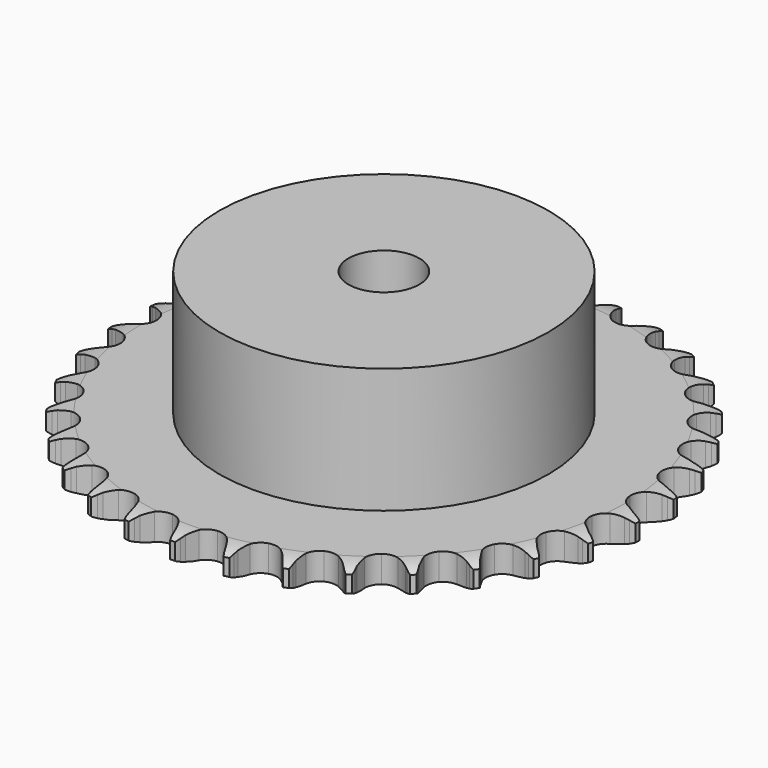
from build123d import *

# Parameters (mm, degrees)
PAD_DEPTH         = 5.3
SKETCH001_R       = 32.5
PAD001_DEPTH      = 30
SKETCH002_R       = 7
POCKET_DEPTH      = 0.001
POCKET_DEPTH_BACK = 30.001


with BuildPart() as part:
    # Sprocket → Pad (new body)
    with BuildSketch(Plane.XY):
        with BuildLine():
            ThreePointArc((-5.033928, 52.71768), (-4.450917, 51.93788), (-4.025047, 51.062309))
            Line((-4.025047, 51.062309), (-3.715267, 50.23443))
            ThreePointArc((-3.715267, 50.23443), (-3.223756, 49.160429), (-2.584928, 48.16697))
            ThreePointArc((-2.584928, 48.16697), (-1.445345, 47.214591), (0, 46.873047))
            ThreePointArc((0, 46.873047), (1.445345, 47.214591), (2.584928, 48.16697))
            ThreePointArc((2.584928, 48.16697), (3.223756, 49.160429), (3.715267, 50.23443))
            Line((3.715267, 50.23443), (4.025047, 51.062309))
            ThreePointArc((4.025047, 51.062309), (4.450917, 51.93788), (5.033928, 52.71768))
            ThreePointArc((5.033928, 52.71768), (5.458825, 51.841637), (5.711296, 50.901292))
            Line((5.711296, 50.901292), (5.858802, 50.029748))
            ThreePointArc((5.858802, 50.029748), (6.138174, 48.882135), (6.577444, 47.785731))
            ThreePointArc((6.577444, 47.785731), (7.516195, 46.634895), (8.870783, 46.02599))
            ThreePointArc((8.870783, 46.02599), (10.354646, 46.087829), (11.653874, 46.807329))
            Line((11.653874, 46.807329), (13.155055, 48.62351))
            ThreePointArc((13.155055, 48.62351), (13.375447, 49.006789), (13.615915, 49.377801))
            ThreePointArc((13.615915, 49.377801), (14.199792, 50.156953), (14.919845, 50.812326))
            ThreePointArc((14.919845, 50.812326), (15.171271, 49.871701), (15.241218, 48.900569))
            Line((15.241218, 48.900569), (15.221117, 48.016859))
            ThreePointArc((15.221117, 48.016859), (15.278254, 46.837115), (15.50209, 45.677391))
            ThreePointArc((15.50209, 45.677391), (16.206079, 44.369693), (17.420952, 43.515434))
            ThreePointArc((17.420952, 43.515434), (18.889703, 43.295332), (20.301618, 43.75595))
            Line((20.301618, 43.75595), (22.119386, 45.255209))
            ThreePointArc((22.119386, 45.255209), (22.408331, 45.589852), (22.714668, 45.908651))
            ThreePointArc((22.714668, 45.908651), (23.435449, 46.563224), (24.26652, 47.070481))
            ThreePointArc((24.26652, 47.070481), (24.335388, 46.099273), (24.220283, 45.132453))
            Line((24.220283, 45.132453), (24.033302, 44.268517))
            ThreePointArc((24.033302, 44.268517), (23.866138, 43.099278), (23.86645, 41.918151))
            ThreePointArc((23.86645, 41.918151), (24.310234, 40.500854), (25.341483, 39.432117))
            ThreePointArc((25.341483, 39.432117), (26.742037, 38.938029), (28.215609, 39.123116))
            Line((28.215609, 39.123116), (30.284265, 40.251267))
            ThreePointArc((30.284265, 40.251267), (30.63132, 40.525179), (30.992454, 40.780243))
            ThreePointArc((30.992454, 40.780243), (31.824088, 41.286578), (32.736139, 41.627388))
            ThreePointArc((32.736139, 41.627388), (32.619961, 40.660696), (32.323964, 39.733132))
            Line((32.323964, 39.733132), (31.976861, 38.920195))
            ThreePointArc((31.976861, 38.920195), (31.591438, 37.803722), (31.368215, 36.64388))
            ThreePointArc((31.368215, 36.64388), (31.535753, 35.168209), (32.346106, 33.92362))
            ThreePointArc((32.346106, 33.92362), (33.627844, 33.173405), (35.109815, 33.076271))
            Line((35.109815, 33.076271), (37.354591, 33.79254))
            ThreePointArc((37.354591, 33.79254), (37.747213, 33.995821), (38.150092, 34.177931))
            ThreePointArc((38.150092, 34.177931), (39.062521, 34.517727), (40.02259, 34.679771))
            ThreePointArc((40.02259, 34.679771), (39.725563, 33.752536), (39.259373, 32.897752))
            Line((39.259373, 32.897752), (38.764693, 32.165195))
            ThreePointArc((38.764693, 32.165195), (38.174941, 31.141841), (37.73625, 30.045203))
            ThreePointArc((37.73625, 30.045203), (37.621488, 28.564493), (38.181657, 27.189035))
            ThreePointArc((38.181657, 27.189035), (39.298253, 26.209807), (40.73506, 25.833964))
            Line((40.73506, 25.833964), (43.074825, 26.112462))
            ThreePointArc((43.074825, 26.112462), (43.498823, 26.237765), (43.928886, 26.340339))
            ThreePointArc((43.928886, 26.340339), (44.889133, 26.501316), (45.862519, 26.478738))
            ThreePointArc((45.862519, 26.478738), (45.39538, 25.624472), (44.775845, 24.873362))
            Line((44.775845, 24.873362), (44.151468, 24.247662))
            ThreePointArc((44.151468, 24.247662), (43.378702, 23.354412), (42.740399, 22.360615))
            ThreePointArc((42.740399, 22.360615), (42.347485, 20.928382), (42.637224, 19.471768))
            ThreePointArc((42.637224, 19.471768), (43.548321, 18.298918), (44.888034, 17.657949))
            Line((44.888034, 17.657949), (47.238223, 17.488611))
            ThreePointArc((47.238223, 17.488611), (47.678272, 17.531408), (48.119975, 17.550738))
            ThreePointArc((48.119975, 17.550738), (49.093335, 17.527078), (50.044858, 17.320694))
            ThreePointArc((50.044858, 17.320694), (49.424489, 16.570272), (48.674002, 15.949983))
            Line((48.674002, 15.949983), (47.942493, 15.453755))
            ThreePointArc((47.942493, 15.453755), (47.014644, 14.722894), (46.199799, 13.867856))
            ThreePointArc((46.199799, 13.867856), (45.542933, 12.535865), (45.55177, 11.05074))
            ThreePointArc((45.55177, 11.05074), (46.224439, 9.726659), (47.418638, 8.843731))
            Line((47.418638, 8.843731), (49.694308, 8.232677))
            ThreePointArc((49.694308, 8.232677), (50.134505, 8.191421), (50.571884, 8.126808))
            ThreePointArc((50.571884, 8.126808), (51.523176, 7.919367), (52.418445, 7.536635))
            ThreePointArc((52.418445, 7.536635), (51.667269, 6.91718), (50.812953, 6.450131))
            Line((50.812953, 6.450131), (50.000752, 6.101309))
            ThreePointArc((50.000752, 6.101309), (48.951354, 5.559252), (47.989417, 4.873877))
            ThreePointArc((47.989417, 4.873877), (47.092341, 3.690268), (46.819956, 2.230309))
            ThreePointArc((46.819956, 2.230309), (47.229885, 0.802853), (48.235409, -0.290123))
            Line((48.235409, -0.290123), (50.354311, -1.320808))
            ThreePointArc((50.354311, -1.320808), (50.778745, -1.444626), (51.195992, -1.590846))
            ThreePointArc((51.195992, -1.590846), (52.090835, -1.974572), (52.897493, -2.519818))
            ThreePointArc((52.897493, -2.519818), (52.042659, -2.985918), (51.115392, -3.282846))
            Line((51.115392, -3.282846), (50.251854, -3.471654))
            ThreePointArc((50.251854, -3.471654), (49.118835, -3.805315), (48.044573, -4.296258))
            ThreePointArc((48.044573, -4.296258), (46.939709, -5.288704), (46.395947, -6.67073))
            ThreePointArc((46.395947, -6.67073), (46.528321, -8.14997), (47.308826, -9.413491))
            Line((47.308826, -9.413491), (49.194379, -10.826555))
            ThreePointArc((49.194379, -10.826555), (49.58771, -11.028461), (49.969745, -11.251002))
            ThreePointArc((49.969745, -11.251002), (50.775796, -11.797144), (51.464687, -12.485198))
            ThreePointArc((51.464687, -12.485198), (50.537092, -12.781096), (49.570388, -12.897173))
            Line((49.570388, -12.897173), (48.686723, -12.919143))
            ThreePointArc((48.686723, -12.919143), (47.511033, -13.032349), (46.363273, -13.311114))
            ThreePointArc((46.363273, -13.311114), (45.090553, -14.076528), (44.295068, -15.330672))
            ThreePointArc((44.295068, -15.330672), (44.145101, -16.808232), (44.672379, -18.196631))
            Line((44.672379, -18.196631), (46.256433, -19.941003))
            ThreePointArc((46.256433, -19.941003), (46.604445, -20.213698), (46.93746, -20.504518))
            ThreePointArc((46.93746, -20.504518), (47.625587, -21.193337), (48.171814, -21.99933))
            ThreePointArc((48.171814, -21.99933), (47.204982, -22.114333), (46.233781, -22.045361))
            Line((46.233781, -22.045361), (45.361926, -21.8997))
            ThreePointArc((45.361926, -21.8997), (44.186058, -21.78836), (43.006283, -21.844872))
            ThreePointArc((43.006283, -21.844872), (41.611708, -22.35559), (40.59325, -23.436524))
            ThreePointArc((40.59325, -23.436524), (40.166363, -24.859001), (40.421356, -26.322098))
            Line((40.421356, -26.322098), (41.64666, -28.33473))
            ThreePointArc((41.64666, -28.33473), (41.936775, -28.668359), (42.208733, -29.016948))
            ThreePointArc((42.208733, -29.016948), (42.754065, -29.823547), (43.137886, -30.71835))
            ThreePointArc((43.137886, -30.71835), (42.166762, -30.6483), (41.226164, -30.396773))
            Line((41.226164, -30.396773), (40.397632, -30.088745))
            ThreePointArc((40.397632, -30.088745), (39.264084, -29.756882), (38.094934, -29.589099))
            ThreePointArc((38.094934, -29.589099), (36.628907, -29.826663), (35.424286, -30.695318))
            ThreePointArc((35.424286, -30.695318), (34.735908, -32.011301), (34.709399, -33.496215))
            Line((34.709399, -33.496215), (35.531667, -35.704367))
            ThreePointArc((35.531667, -35.704367), (35.7534, -36.086872), (35.954473, -36.480629))
            ThreePointArc((35.954473, -36.480629), (36.3373, -37.375857), (36.544842, -38.327128))
            ThreePointArc((36.544842, -38.327128), (35.604524, -38.074557), (34.728526, -37.649567))
            Line((34.728526, -37.649567), (33.973261, -37.190304))
            ThreePointArc((33.973261, -37.190304), (32.923004, -36.649913), (31.806736, -36.263899))
            ThreePointArc((31.806736, -36.263899), (30.322242, -36.219723), (28.974995, -36.844704))
            ThreePointArc((28.974995, -36.844704), (28.050006, -38.006628), (27.742955, -39.459692))
            Line((27.742955, -39.459692), (28.132468, -41.783555))
            ThreePointArc((28.132468, -41.783555), (28.277804, -42.20111), (28.400724, -42.625805))
            ThreePointArc((28.400724, -42.625805), (28.60721, -43.577306), (28.630973, -44.550663))
            ThreePointArc((28.630973, -44.550663), (27.755447, -44.124701), (26.975709, -43.541607))
            Line((26.975709, -43.541607), (26.321009, -42.947709))
            ThreePointArc((26.321009, -42.947709), (25.392001, -42.218321), (24.368958, -41.628028))
            ThreePointArc((24.368958, -41.628028), (22.919652, -41.303707), (21.478473, -41.662426))
            ThreePointArc((21.478473, -41.662426), (20.350304, -42.628298), (19.773808, -43.996993))
            Line((19.773808, -43.996993), (19.716488, -46.352576))
            ThreePointArc((19.716488, -46.352576), (19.780175, -46.790091), (19.8205, -47.230374))
            ThreePointArc((19.8205, -47.230374), (19.843181, -48.203757), (19.682305, -49.164022))
            ThreePointArc((19.682305, -49.164022), (18.903215, -48.580063), (18.247919, -47.85994))
            Line((18.247919, -47.85994), (17.717447, -47.152872))
            ThreePointArc((17.717447, -47.152872), (16.943265, -46.260849), (16.050423, -45.487611))
            ThreePointArc((16.050423, -45.487611), (14.688686, -44.894868), (13.205663, -44.97436))
            ThreePointArc((13.205663, -44.97436), (11.915089, -45.709269), (11.089984, -46.944127))
            Line((11.089984, -46.944127), (10.587902, -49.246295))
            ThreePointArc((10.587902, -49.246295), (10.567638, -49.687956), (10.52391, -50.127914))
            ThreePointArc((10.52391, -50.127914), (10.361968, -51.087999), (10.022268, -52.000465))
            ThreePointArc((10.022268, -52.000465), (9.367772, -51.279615), (8.860603, -50.44849))
            Line((8.860603, -50.44849), (8.47353, -49.653807))
            ThreePointArc((8.47353, -49.653807), (7.882155, -48.631389), (7.151784, -47.703153))
            ThreePointArc((7.151784, -47.703153), (5.926832, -46.863411), (4.455566, -46.660802))
            ThreePointArc((4.455566, -46.660802), (3.049232, -47.138189), (2.005339, -48.194579))
            Line((2.005339, -48.194579), (1.076643, -50.360124))
            ThreePointArc((1.076643, -50.360124), (0.97316, -50.789968), (0.84696, -51.2137))
            ThreePointArc((0.84696, -51.2137), (0.506246, -52.125788), (0, -52.957475))
            ThreePointArc((0, -52.957475), (-0.506246, -52.125788), (-0.84696, -51.2137))
            Line((-0.84696, -51.2137), (-1.076643, -50.360124))
            ThreePointArc((-1.076643, -50.360124), (-1.463837, -49.244264), (-2.005339, -48.194579))
            ThreePointArc((-2.005339, -48.194579), (-3.049232, -47.138189), (-4.455566, -46.660802))
            ThreePointArc((-4.455566, -46.660802), (-5.926832, -46.863411), (-7.151784, -47.703153))
            Line((-7.151784, -47.703153), (-8.47353, -49.653807))
            ThreePointArc((-8.47353, -49.653807), (-8.656491, -50.056299), (-8.860603, -50.44849))
            ThreePointArc((-8.860603, -50.44849), (-9.367772, -51.279615), (-10.022268, -52.000465))
            ThreePointArc((-10.022268, -52.000465), (-10.361968, -51.087999), (-10.52391, -50.127914))
            Line((-10.52391, -50.127914), (-10.587902, -49.246295))
            ThreePointArc((-10.587902, -49.246295), (-10.756922, -48.077323), (-11.089984, -46.944127))
            ThreePointArc((-11.089984, -46.944127), (-11.915089, -45.709269), (-13.205663, -44.97436))
            ThreePointArc((-13.205663, -44.97436), (-14.688686, -44.894868), (-16.050423, -45.487611))
            Line((-16.050423, -45.487611), (-17.717447, -47.152872))
            ThreePointArc((-17.717447, -47.152872), (-17.973274, -47.513465), (-18.247919, -47.85994))
            ThreePointArc((-18.247919, -47.85994), (-18.903215, -48.580063), (-19.682305, -49.164022))
            ThreePointArc((-19.682305, -49.164022), (-19.843181, -48.203757), (-19.8205, -47.230374))
            Line((-19.8205, -47.230374), (-19.716488, -46.352576))
            ThreePointArc((-19.716488, -46.352576), (-19.661223, -45.172742), (-19.773808, -43.996993))
            ThreePointArc((-19.773808, -43.996993), (-20.350304, -42.628298), (-21.478473, -41.662426))
            ThreePointArc((-21.478473, -41.662426), (-22.919652, -41.303707), (-24.368958, -41.628028))
            Line((-24.368958, -41.628028), (-26.321009, -42.947709))
            ThreePointArc((-26.321009, -42.947709), (-26.640456, -43.25337), (-26.975709, -43.541607))
            ThreePointArc((-26.975709, -43.541607), (-27.755447, -44.124701), (-28.630973, -44.550663))
            ThreePointArc((-28.630973, -44.550663), (-28.60721, -43.577306), (-28.400724, -42.625805))
            Line((-28.400724, -42.625805), (-28.132468, -41.783555))
            ThreePointArc((-28.132468, -41.783555), (-27.854917, -40.635501), (-27.742955, -39.459692))
            ThreePointArc((-27.742955, -39.459692), (-28.050006, -38.006628), (-28.974995, -36.844704))
            ThreePointArc((-28.974995, -36.844704), (-30.322242, -36.219723), (-31.806736, -36.263899))
            Line((-31.806736, -36.263899), (-33.973261, -37.190304))
            ThreePointArc((-33.973261, -37.190304), (-34.344782, -37.429986), (-34.728526, -37.649567))
            ThreePointArc((-34.728526, -37.649567), (-35.604524, -38.074557), (-36.544842, -38.327128))
            ThreePointArc((-36.544842, -38.327128), (-36.3373, -37.375857), (-35.954473, -36.480629))
            Line((-35.954473, -36.480629), (-35.531667, -35.704367))
            ThreePointArc((-35.531667, -35.704367), (-35.041862, -34.629587), (-34.709399, -33.496215))
            ThreePointArc((-34.709399, -33.496215), (-34.735908, -32.011301), (-35.424286, -30.695318))
            ThreePointArc((-35.424286, -30.695318), (-36.628907, -29.826663), (-38.094934, -29.589099))
            Line((-38.094934, -29.589099), (-40.397632, -30.088745))
            ThreePointArc((-40.397632, -30.088745), (-40.807799, -30.253785), (-41.226164, -30.396773))
            ThreePointArc((-41.226164, -30.396773), (-42.166762, -30.6483), (-43.137886, -30.71835))
            ThreePointArc((-43.137886, -30.71835), (-42.754065, -29.823547), (-42.208733, -29.016948))
            Line((-42.208733, -29.016948), (-41.64666, -28.33473))
            ThreePointArc((-41.64666, -28.33473), (-40.962302, -27.372069), (-40.421356, -26.322098))
            ThreePointArc((-40.421356, -26.322098), (-40.166363, -24.859001), (-40.59325, -23.436524))
            ThreePointArc((-40.59325, -23.436524), (-41.611708, -22.35559), (-43.006283, -21.844872))
            Line((-43.006283, -21.844872), (-45.361926, -21.8997))
            ThreePointArc((-45.361926, -21.8997), (-45.795915, -21.984133), (-46.233781, -22.045361))
            ThreePointArc((-46.233781, -22.045361), (-47.204982, -22.114333), (-48.171814, -21.99933))
            ThreePointArc((-48.171814, -21.99933), (-47.625587, -21.193337), (-46.93746, -20.504518))
            Line((-46.93746, -20.504518), (-46.256433, -19.941003))
            ThreePointArc((-46.256433, -19.941003), (-45.402258, -19.125253), (-44.672379, -18.196631))
            ThreePointArc((-44.672379, -18.196631), (-44.145101, -16.808232), (-44.295068, -15.330672))
            ThreePointArc((-44.295068, -15.330672), (-45.090553, -14.076528), (-46.363273, -13.311114))
            Line((-46.363273, -13.311114), (-48.686723, -12.919143))
            ThreePointArc((-48.686723, -12.919143), (-49.128848, -12.919917), (-49.570388, -12.897173))
            ThreePointArc((-49.570388, -12.897173), (-50.537092, -12.781096), (-51.464687, -12.485198))
            ThreePointArc((-51.464687, -12.485198), (-50.775796, -11.797144), (-49.969745, -11.251002))
            Line((-49.969745, -11.251002), (-49.194379, -10.826555))
            ThreePointArc((-49.194379, -10.826555), (-48.201258, -10.187201), (-47.308826, -9.413491))
            ThreePointArc((-47.308826, -9.413491), (-46.528321, -8.14997), (-46.395947, -6.67073))
            ThreePointArc((-46.395947, -6.67073), (-46.939709, -5.288704), (-48.044573, -4.296258))
            Line((-48.044573, -4.296258), (-50.251854, -3.471654))
            ThreePointArc((-50.251854, -3.471654), (-50.686136, -3.388742), (-51.115392, -3.282846))
            ThreePointArc((-51.115392, -3.282846), (-52.042659, -2.985918), (-52.897493, -2.519818))
            ThreePointArc((-52.897493, -2.519818), (-52.090835, -1.974572), (-51.195992, -1.590846))
            Line((-51.195992, -1.590846), (-50.354311, -1.320808))
            ThreePointArc((-50.354311, -1.320808), (-49.258139, -0.880957), (-48.235409, -0.290123))
            ThreePointArc((-48.235409, -0.290123), (-47.229885, 0.802853), (-46.819956, 2.230309))
            ThreePointArc((-46.819956, 2.230309), (-47.092341, 3.690268), (-47.989417, 4.873877))
            Line((-47.989417, 4.873877), (-50.000752, 6.101309))
            ThreePointArc((-50.000752, 6.101309), (-50.411495, 6.264912), (-50.812953, 6.450131))
            ThreePointArc((-50.812953, 6.450131), (-51.667269, 6.91718), (-52.418445, 7.536635))
            ThreePointArc((-52.418445, 7.536635), (-51.523176, 7.919367), (-50.571884, 8.126808))
            Line((-50.571884, 8.126808), (-49.694308, 8.232677))
            ThreePointArc((-49.694308, 8.232677), (-48.534703, 8.457127), (-47.418638, 8.843731))
            ThreePointArc((-47.418638, 8.843731), (-46.224439, 9.726659), (-45.55177, 11.05074))
            ThreePointArc((-45.55177, 11.05074), (-45.542933, 12.535865), (-46.199799, 13.867856))
            Line((-46.199799, 13.867856), (-47.942493, 15.453755))
            ThreePointArc((-47.942493, 15.453755), (-48.314851, 15.692135), (-48.674002, 15.949983))
            ThreePointArc((-48.674002, 15.949983), (-49.424489, 16.570272), (-50.044858, 17.320694))
            ThreePointArc((-50.044858, 17.320694), (-49.093335, 17.527078), (-48.119975, 17.550738))
            Line((-48.119975, 17.550738), (-47.238223, 17.488611))
            ThreePointArc((-47.238223, 17.488611), (-46.057095, 17.489548), (-44.888034, 17.657949))
            ThreePointArc((-44.888034, 17.657949), (-43.548321, 18.298918), (-42.637224, 19.471768))
            ThreePointArc((-42.637224, 19.471768), (-42.347485, 20.928382), (-42.740399, 22.360615))
            Line((-42.740399, 22.360615), (-44.151468, 24.247662))
            ThreePointArc((-44.151468, 24.247662), (-44.471983, 24.552203), (-44.775845, 24.873362))
            ThreePointArc((-44.775845, 24.873362), (-45.39538, 25.624472), (-45.862519, 26.478738))
            ThreePointArc((-45.862519, 26.478738), (-44.889133, 26.501316), (-43.928886, 26.340339))
            Line((-43.928886, 26.340339), (-43.074825, 26.112462))
            ThreePointArc((-43.074825, 26.112462), (-41.914865, 25.889852), (-40.73506, 25.833964))
            ThreePointArc((-40.73506, 25.833964), (-39.298253, 26.209807), (-38.181657, 27.189035))
            ThreePointArc((-38.181657, 27.189035), (-37.621488, 28.564493), (-37.73625, 30.045203))
            Line((-37.73625, 30.045203), (-38.764693, 32.165195))
            ThreePointArc((-38.764693, 32.165195), (-39.021781, 32.524891), (-39.259373, 32.897752))
            ThreePointArc((-39.259373, 32.897752), (-39.725563, 33.752536), (-40.02259, 34.679771))
            ThreePointArc((-40.02259, 34.679771), (-39.062521, 34.517727), (-38.150092, 34.177931))
            Line((-38.150092, 34.177931), (-37.354591, 33.79254))
            ThreePointArc((-37.354591, 33.79254), (-36.257722, 33.354429), (-35.109815, 33.076271))
            ThreePointArc((-35.109815, 33.076271), (-33.627844, 33.173405), (-32.346106, 33.92362))
            ThreePointArc((-32.346106, 33.92362), (-31.535753, 35.168209), (-31.368215, 36.64388))
            Line((-31.368215, 36.64388), (-31.976861, 38.920195))
            ThreePointArc((-31.976861, 38.920195), (-32.161231, 39.322044), (-32.323964, 39.733132))
            ThreePointArc((-32.323964, 39.733132), (-32.619961, 40.660696), (-32.736139, 41.627388))
            ThreePointArc((-32.736139, 41.627388), (-31.824088, 41.286578), (-30.992454, 40.780243))
            Line((-30.992454, 40.780243), (-30.284265, 40.251267))
            ThreePointArc((-30.284265, 40.251267), (-29.290131, 39.61349), (-28.215609, 39.123116))
            ThreePointArc((-28.215609, 39.123116), (-26.742037, 38.938029), (-25.341483, 39.432117))
            ThreePointArc((-25.341483, 39.432117), (-24.310234, 40.500854), (-23.86645, 41.918151))
            Line((-23.86645, 41.918151), (-24.033302, 44.268517))
            ThreePointArc((-24.033302, 44.268517), (-24.13829, 44.697997), (-24.220283, 45.132453))
            ThreePointArc((-24.220283, 45.132453), (-24.335388, 46.099273), (-24.26652, 47.070481))
            ThreePointArc((-24.26652, 47.070481), (-23.435449, 46.563224), (-22.714668, 45.908651))
            Line((-22.714668, 45.908651), (-22.119386, 45.255209))
            ThreePointArc((-22.119386, 45.255209), (-21.263917, 44.440816), (-20.301618, 43.75595))
            ThreePointArc((-20.301618, 43.75595), (-18.889703, 43.295332), (-17.420952, 43.515434))
            ThreePointArc((-17.420952, 43.515434), (-16.206079, 44.369693), (-15.50209, 45.677391))
            Line((-15.50209, 45.677391), (-15.221117, 48.016859))
            ThreePointArc((-15.221117, 48.016859), (-15.242928, 48.458447), (-15.241218, 48.900569))
            ThreePointArc((-15.241218, 48.900569), (-15.171271, 49.871701), (-14.919845, 50.812326))
            ThreePointArc((-14.919845, 50.812326), (-14.199792, 50.156953), (-13.615915, 49.377801))
            Line((-13.615915, 49.377801), (-13.155055, 48.62351))
            ThreePointArc((-13.155055, 48.62351), (-12.469171, 47.661936), (-11.653874, 46.807329))
            ThreePointArc((-11.653874, 46.807329), (-10.354646, 46.087829), (-8.870783, 46.02599))
            ThreePointArc((-8.870783, 46.02599), (-7.516195, 46.634895), (-6.577444, 47.785731))
            Line((-6.577444, 47.785731), (-5.858802, 50.029748))
            ThreePointArc((-5.858802, 50.029748), (-5.796647, 50.467483), (-5.711296, 50.901292))
            ThreePointArc((-5.711296, 50.901292), (-5.458825, 51.841637), (-5.033928, 52.71768))
        make_face()
    extrude(amount=PAD_DEPTH)

    # Sketch → Groove (revolve, cut)
    with BuildSketch(Plane.XZ):
        with BuildLine():
            Line((47.791101, 0), (52.15, 0))
            Line((56.508899, 0), (52.15, 0))
            Line((56.508899, 5.3), (56.508899, 0))
            Line((52.15, 5.3), (56.508899, 5.3))
            Line((47.791101, 5.3), (52.15, 5.3))
            ThreePointArc((52.15, 4.3), (50.027169, 5.046794), (47.791101, 5.3))
            Line((52.15, 1), (52.15, 4.3))
            ThreePointArc((47.791101, 0), (50.027169, 0.253206), (52.15, 1))
        make_face()
    revolve(axis=Axis((0, 0, 0), (0, 0, 1)), mode=Mode.SUBTRACT)

    # Sketch001 → Pad001 (join)
    with BuildSketch(Plane.XY):
        Circle(SKETCH001_R)
    extrude(amount=PAD001_DEPTH)

    # Sketch002 → Pocket (cut, two sides)
    with BuildSketch(Plane.XY) as pocket_sk:
        Circle(SKETCH002_R)
    extrude(amount=-POCKET_DEPTH, mode=Mode.SUBTRACT)
    extrude(pocket_sk.sketch, amount=POCKET_DEPTH_BACK, mode=Mode.SUBTRACT)


solid = part.part
